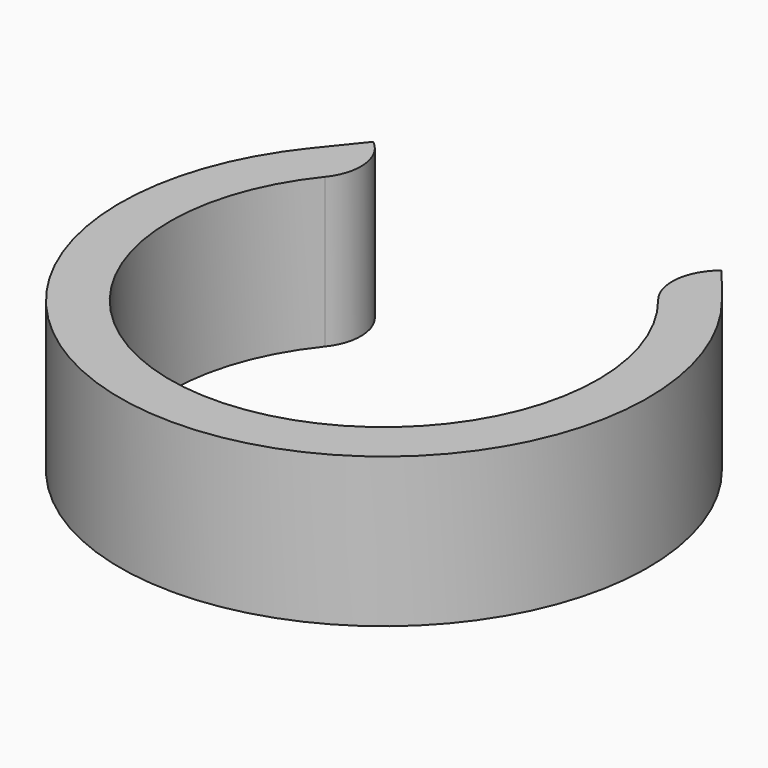
from build123d import *

# Parameters (mm, degrees)
F1_DEPTH = 7.62
F3_R     = 1.5748
F4_DEPTH = 3.81
F5_SIZE  = 1.524


with BuildPart() as f1:
    # F0 (on Top) → F1 (new body)
    with BuildSketch(Plane.XY):
        with BuildLine():
            ThreePointArc((8.500466, 6.858), (0, -10.922), (-8.500466, 6.858))
            ThreePointArc((-8.500466, 6.858), (-7.951719, 8.722976), (-8.882435, 10.429736))
            Line((-8.882435, 10.429736), (-10.477318, 8.452884))
            ThreePointArc((-10.477318, 8.452884), (0, -13.462), (10.477318, 8.452884))
            Line((10.477318, 8.452884), (8.882435, 10.429736))
            ThreePointArc((8.882435, 10.429736), (7.951719, 8.722976), (8.500466, 6.858))
        make_face()
    extrude(amount=F1_DEPTH)

    # F3 (on offset) → F4 (join)
    with BuildSketch(Plane.XZ.offset(11.43)):
        with Locations((0, 3.81)):
            Circle(F3_R)
    extrude(amount=-F4_DEPTH)

    # F5
    f5_edges = [f1.edges().sort_by_distance(p)[0] for p in [
        (-1.5748, -7.62, 3.81),
    ]]
    chamfer(f5_edges, length=F5_SIZE)


solid = f1.part
